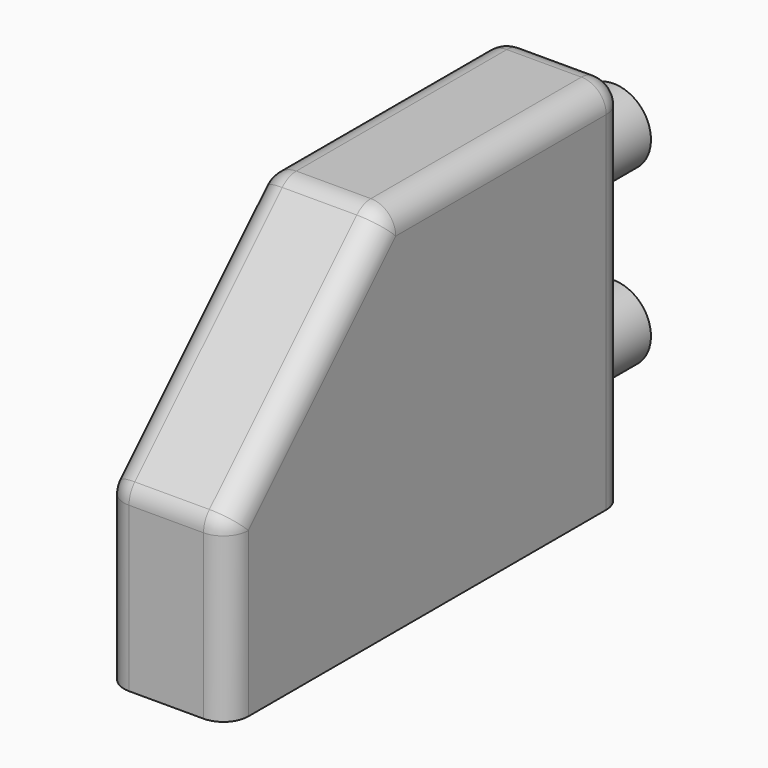
from build123d import *

# Parameters (mm, degrees)
F0_W     = 6.35
F0_H     = 25.4
F1_DEPTH = 19.05
F2_SIZE  = 10.16
F3_R     = 1.27
F4_R     = 1.27
F5_R     = 1.905
F6_DEPTH = 3.175


with BuildPart() as f1:
    # F0 (on Top) → F1 (new body)
    with BuildSketch(Plane.XY):
        Rectangle(F0_W, F0_H)
    extrude(amount=F1_DEPTH)

    # F2
    f2_edges = [f1.edges().sort_by_distance(p)[0] for p in [
        (0, -12.7, 19.05),
    ]]
    chamfer(f2_edges, length=F2_SIZE)

    # F3
    f3_edges = [f1.edges().sort_by_distance(p)[0] for p in [
        (0, 12.7, 19.05),
        (0, -2.54, 19.05),
        (0, -12.7, 8.89),
    ]]
    fillet(f3_edges, radius=F3_R)

    # F4
    f4_edges = [f1.edges().sort_by_distance(p)[0] for p in [
        (3.175, -12.7, 4.181974),
        (3.175, -7.62, 13.97),
        (-3.175, -12.7, 4.181974),
        (-3.175, -7.62, 13.97),
        (-3.175, -12.603327, 8.849957),
        (3.175, -12.603327, 8.849957),
        (3.175, -2.499957, 18.953327),
        (3.175, 4.708026, 19.05),
        (-3.175, -2.499957, 18.953327),
        (-3.175, 4.708026, 19.05),
        (-3.175, 12.328026, 18.678026),
        (3.175, 12.328026, 18.678026),
        (3.175, 12.7, 8.89),
        (-3.175, 12.7, 8.89),
    ]]
    fillet(f4_edges, radius=F4_R)

    # F5 (on face) → F6 (join)
    with BuildSketch(Plane(origin=(0, 12.7, 0), x_dir=(-1, 0, 0), z_dir=(0, 1, 0))):
        with Locations((0, 14.4283687696)):
            Circle(F5_R)
        with Locations((0, 5.5899028666)):
            Circle(F5_R)
    extrude(amount=F6_DEPTH)


solid = f1.part
